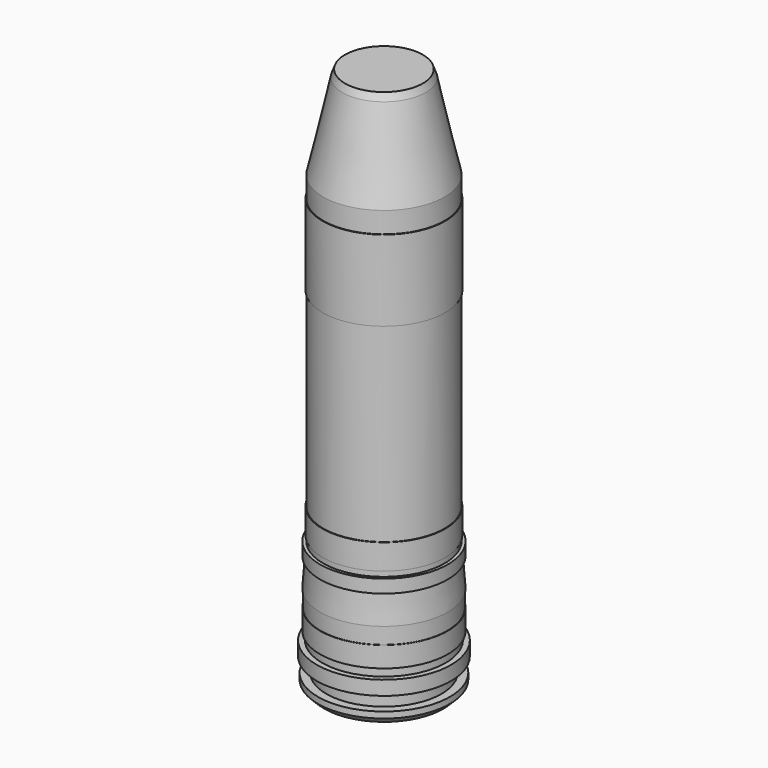
from build123d import *

# Parameters (mm, degrees)
SKETCH001_R  = 3.775
POCKET_DEPTH = 0.5


with BuildPart() as part:
    # Sketch → Revolution (revolve)
    with BuildSketch(Plane.XZ):
        Polygon((0, 100.040299), (-9.45, 100.040299), (-10.1, 98.290299), (-14.75, 77.490299), (-14.75, 72.390299), (-14.9, 72.390299), (-14.9, 52.790299), (-14.75, 52.790299), (-14.75, 6.590299), (-14.9, 6.590299), (-14.9, 0.440299), (-14.75, 0.440299), (-14.75, -0.859701), (-15.5, -0.859701), (-15.5, -4.059701), (-15, -4.059701), (-15.5, -11.059701), (-15.4, -11.059701), (-15.4, -15.059701), (-15.5, -15.059701), (-15.5, -20.059701), (-15, -20.059701), (-15, -22.059701), (-16.3, -22.059701), (-16.3, -25.509701), (-14, -25.509701), (-14, -29.009701), (-16, -29.009701), (-16, -30.509701), (-14.5, -32.009701), (0, -32.009701), align=None)
    revolve(axis=Axis((0, 0, 0), (0, 0, 1)))

    # Sketch001 (on Face30 of Revolution) → Pocket (cut)
    with BuildSketch(Plane(origin=(0, 0, -32.009701), x_dir=(1, 0, 0), z_dir=(0, 0, -1))):
        Circle(SKETCH001_R)
    extrude(amount=-POCKET_DEPTH, mode=Mode.SUBTRACT)


solid = part.part
